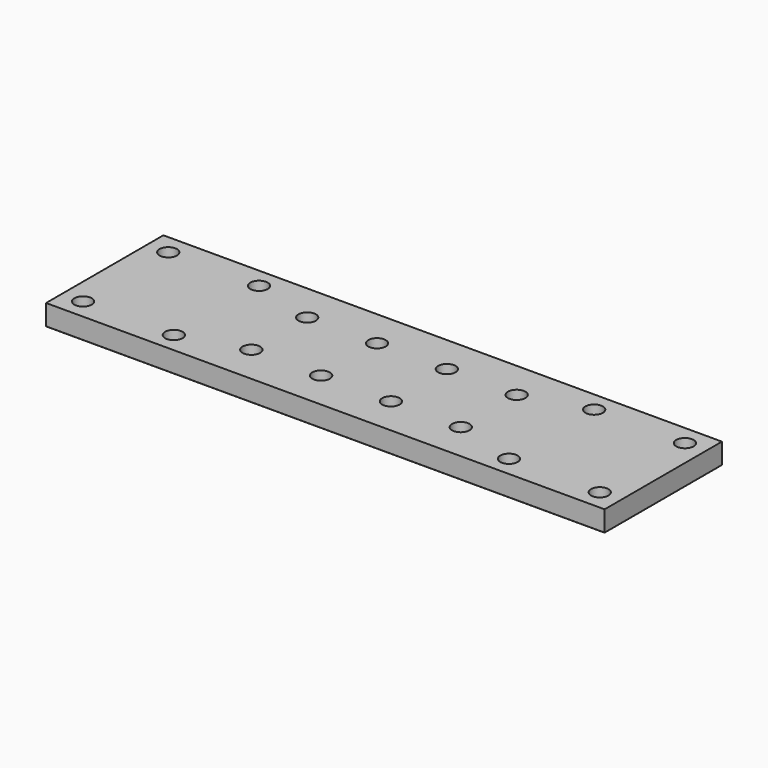
from build123d import *

# Parameters (mm, degrees)
F0_W     = 160
F0_H     = 42
F1_DEPTH = 6
F2_R     = 2.5
F3_DEPTH = 6.001
F4_R     = 2.5
F5_DEPTH = 6.001
F6_R     = 0.2


with BuildPart() as f1:
    # F0 (on Top) → F1 (new body)
    with BuildSketch(Plane.XY):
        with Locations((6.053718, 1.733549)):
            Rectangle(F0_W, F0_H)
    extrude(amount=F1_DEPTH)

    # F2 (on face) → F3 (cut, through all)
    with BuildSketch(Plane.XY.offset(6)):
        with Locations((-67.946282, 16.983549)):
            Circle(F2_R)
        with Locations((-41.946282, 16.983549)):
            Circle(F2_R)
        with Locations((54.053718, 16.983549)):
            Circle(F2_R)
        with Locations((80.053718, 16.983549)):
            Circle(F2_R)
        with Locations((80.053718, -13.516451)):
            Circle(F2_R)
        with Locations((54.053718, -13.516451)):
            Circle(F2_R)
        with Locations((-41.946282, -13.516451)):
            Circle(F2_R)
        with Locations((-67.946282, -13.516451)):
            Circle(F2_R)
    extrude(amount=-F3_DEPTH, mode=Mode.SUBTRACT)

    # F4 (on face) → F5 (cut, through all)
    with BuildSketch(Plane.XY):
        with Locations((-23.946282, -8.266451)):
            Circle(F4_R)
        with Locations((-23.946282, 11.733549)):
            Circle(F4_R)
        with Locations((-3.946282, 11.733549)):
            Circle(F4_R)
        with Locations((-3.946282, -8.287572)):
            Circle(F4_R)
        with Locations((16.053718, -8.287572)):
            Circle(F4_R)
        with Locations((16.053718, 11.733549)):
            Circle(F4_R)
        with Locations((36.053718, 11.733549)):
            Circle(F4_R)
        with Locations((36.053718, -8.266451)):
            Circle(F4_R)
    extrude(amount=F5_DEPTH, mode=Mode.SUBTRACT)

    # F6
    f6_edges = [f1.edges().sort_by_distance(p)[0] for p in [
        (6.053718, 22.733549, 0),
        (86.053718, 1.733549, 0),
        (6.053718, -19.266451, 0),
        (-73.946282, 1.733549, 0),
        (-70.446282, -13.516451, 0),
        (-44.446282, -13.516451, 0),
        (-26.446282, -8.266451, 0),
        (-6.446282, -8.287572, 0),
        (13.553718, -8.287572, 0),
        (33.553718, -8.266451, 0),
        (51.553718, -13.516451, 0),
        (77.553718, -13.516451, 0),
        (-70.446282, 16.983549, 0),
        (-44.446282, 16.983549, 0),
        (-26.446282, 11.733549, 0),
        (-6.446282, 11.733549, 0),
        (13.553718, 11.733549, 0),
        (33.553718, 11.733549, 0),
        (51.553718, 16.983549, 0),
        (77.553718, 16.983549, 0),
    ]]
    fillet(f6_edges, radius=F6_R)


solid = f1.part
